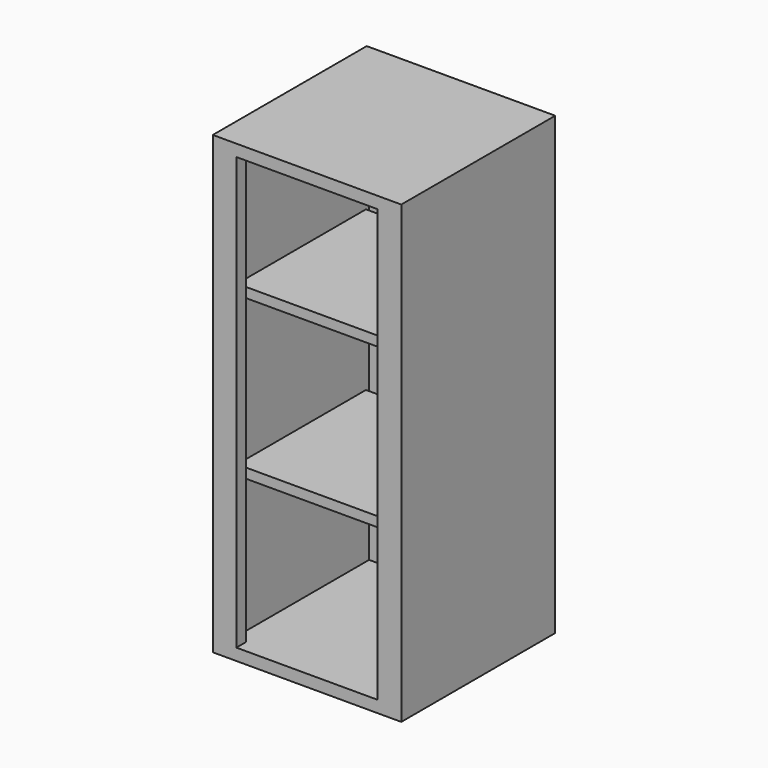
from build123d import *

# Parameters (mm, degrees)
F1_DEPTH = 698.5
F3_DEPTH = 19.05
F5_DEPTH = 19.05
F6_W     = 260.35
F6_H     = 15.875
F7_DEPTH = 266.7


with BuildPart() as f1:
    # F0 (on Top) → F1 (new body)
    with BuildSketch(Plane.XY):
        Polygon((-133.35, -136.525), (-133.35, 136.525), (133.35, 136.525), (133.35, -136.525), (114.3, -136.525), (114.3, -155.575), (152.4, -155.575), (152.4, 155.575), (-152.4, 155.575), (-152.4, -155.575), (-114.3, -155.575), (-114.3, -136.525), align=None)
    extrude(amount=F1_DEPTH)

    # F2 (on face) → F3 (join)
    with BuildSketch(Plane.XY.offset(698.5)):
        Polygon((152.4, 155.575), (-152.4, 155.575), (-152.4, -155.575), (-114.3, -155.575), (-114.3, -136.525), (-133.35, -136.525), (-133.35, 136.525), (133.35, 136.525), (133.35, -136.525), (114.3, -136.525), (114.3, -155.575), (152.4, -155.575), align=None)
        Polygon((-114.3, -136.525), (-114.3, -155.575), (114.3, -155.575), (114.3, -136.525), (133.35, -136.525), (133.35, 136.525), (-133.35, 136.525), (-133.35, -136.525), align=None)
    extrude(amount=F3_DEPTH)

    # F4 (on face) → F5 (join)
    with BuildSketch(Plane(origin=(0, 0, 0), x_dir=(1, 0, 0), z_dir=(0, 0, -1))):
        Polygon((114.3, 155.575), (-114.3, 155.575), (-114.3, 136.525), (-133.35, 136.525), (-133.35, -136.525), (133.35, -136.525), (133.35, 136.525), (114.3, 136.525), align=None)
        Polygon((-152.4, 155.575), (-152.4, -155.575), (152.4, -155.575), (152.4, 155.575), (114.3, 155.575), (114.3, 136.525), (133.35, 136.525), (133.35, -136.525), (-133.35, -136.525), (-133.35, 136.525), (-114.3, 136.525), (-114.3, 155.575), align=None)
    extrude(amount=F5_DEPTH)

    # F6 (on face) → F7 (join, through all)
    with BuildSketch(Plane.YZ.offset(-133.35)):
        with Locations((0, 493.7125)):
            Rectangle(F6_W, F6_H)
        with Locations((0, 236.5375)):
            Rectangle(F6_W, F6_H)
    extrude(amount=F7_DEPTH)


solid = f1.part
